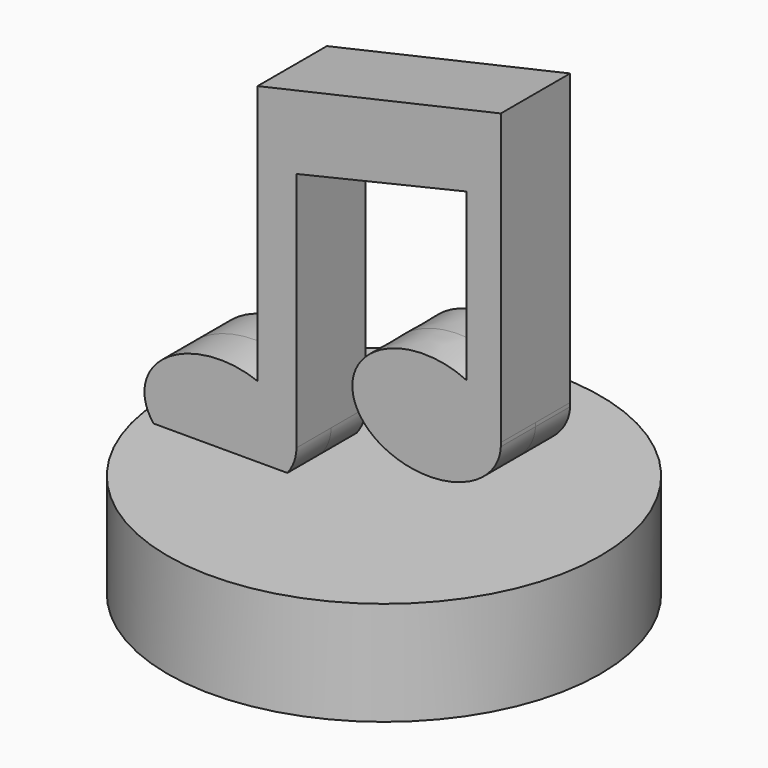
from build123d import *

# Parameters (mm, degrees)
F0_R     = 12.5
F0_R_2   = 6.1
F1_DEPTH = 6
F2_DEPTH = 2
F4_DEPTH = 2.5


with BuildPart() as f1:
    # F0 (on Top) → F1 (new body)
    with BuildSketch(Plane.XY):
        Circle(F0_R)
        Circle(F0_R_2, mode=Mode.SUBTRACT)
    extrude(amount=-F1_DEPTH)

    # F0 (on Top) → F2 (join)
    with BuildSketch(Plane.XY):
        Circle(F0_R_2)
    extrude(amount=-F2_DEPTH)

    # F3 (on Front) → F4 (join, symmetric)
    with BuildSketch(Plane.XZ):
        with BuildLine():
            add(Edge.make_bspline(
                [(8.745821, 5.343975), (8.750764, 5.447785), (8.745821, 5.551827)],
                knots=[0, 0, 0, 0.067901, 0.067901, 0.067901], degree=2, weights=[1, 0.999424, 1]))
            Line((8.745821, 5.551827), (8.745821, 5.343975))
        make_face()
        with BuildLine():
            add(Edge.make_bspline(
                [(-3.056437, 1.444817), (-3.056437, 3.232295), (-5.297712, 4.106672)],
                knots=[0, 0, 0, 1.059661, 1.059661, 1.059661], degree=2, weights=[1, 0.862893, 1]))
            add(Edge.make_bspline(
                [(-5.297712, 4.106672), (-19.40331, 9.609614), (-11.229873, -0.097585), (-3.056437, -9.804784), (-3.056437, 1.444817)],
                knots=[1.059661, 1.059661, 1.059661, 3.671423, 3.671423, 6.283185, 6.283185, 6.283185], degree=2, weights=[1, 0.261827, 1, 0.261827, 1]))
        make_face()
        with BuildLine():
            Line((8.745821, 5.343975), (8.745821, 5.551827))
            add(Edge.make_bspline(
                [(8.745821, 5.551827), (8.669129, 7.165933), (6.763276, 8.076893)],
                knots=[0.067901, 0.067901, 0.067901, 1.037788, 1.037788, 1.037788], degree=2, weights=[1, 0.884701, 1]))
            add(Edge.make_bspline(
                [(6.763276, 8.076893), (2.438907, 10.143854), (0.493255, 6.802759), (-1.452398, 3.461665), (3.559705, 2.575689), (8.571808, 1.689712), (8.745821, 5.343975)],
                knots=[1.037788, 1.037788, 1.037788, 2.786254, 2.786254, 4.53472, 4.53472, 6.283185, 6.283185, 6.283185], degree=2, weights=[1, 0.641585, 1, 0.641585, 1, 0.641585, 1]))
        make_face()
        with BuildLine():
            Line((8.745821, 22.28014), (-5.297712, 19.104175))
            Line((-5.297712, 19.104175), (-5.297712, 4.106672))
            add(Edge.make_bspline(
                [(-3.056437, 1.444817), (-3.056437, 3.232295), (-5.297712, 4.106672)],
                knots=[0, 0, 0, 1.059661, 1.059661, 1.059661], degree=2, weights=[1, 0.862893, 1]))
            Line((-3.056437, 1.444817), (-3.056437, 15.368507))
            Line((-3.056437, 15.368507), (6.763276, 17.666737))
            Line((6.763276, 17.666737), (6.763276, 8.076893))
            add(Edge.make_bspline(
                [(8.745821, 5.551827), (8.669129, 7.165933), (6.763276, 8.076893)],
                knots=[0.067901, 0.067901, 0.067901, 1.037788, 1.037788, 1.037788], degree=2, weights=[1, 0.884701, 1]))
            Line((8.745821, 5.551827), (8.745821, 22.28014))
        make_face()
    extrude(amount=F4_DEPTH, both=True)


solid = f1.part
